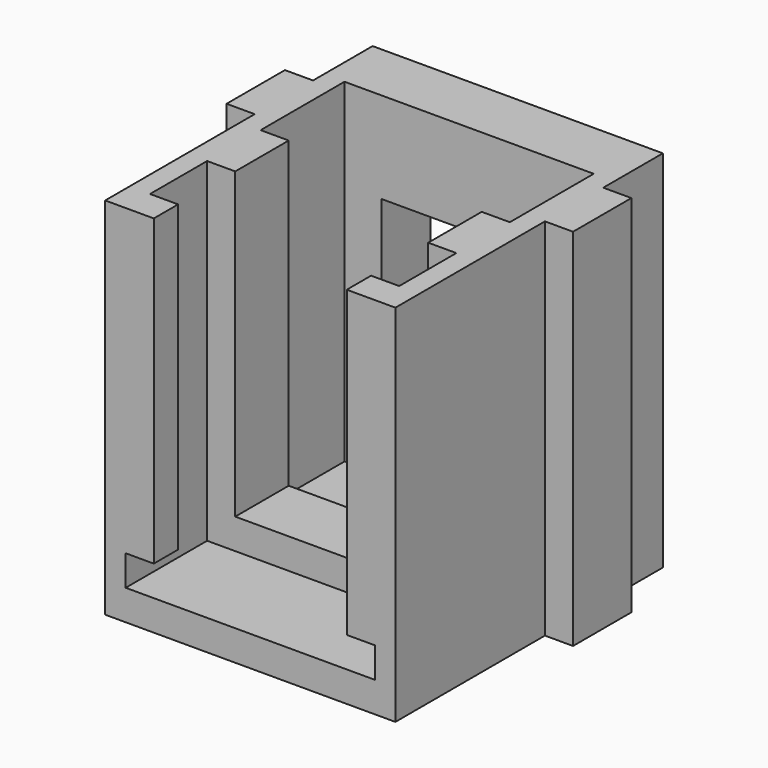
from build123d import *

# Parameters (mm, degrees)
SKETCH_W        = 19.1
SKETCH_H        = 22
PAD_DEPTH       = 24
SKETCH001_W     = 22.8
SKETCH001_H     = 4.8
PAD001_DEPTH    = 24
SKETCH002_W     = 16.4
SKETCH002_H     = 18
POCKET_DEPTH    = 22
SKETCH003_W     = 8.2
SKETCH003_H     = 15
POCKET001_DEPTH = 5
SKETCH004_W     = 1.85
SKETCH004_H     = 2
SKETCH004_H_2   = 4.4
PAD002_DEPTH    = 20
SKETCH005_W     = 19.1
SKETCH005_H     = 4.4
PAD003_DEPTH    = 4


with BuildPart() as part:
    # Sketch → Pad (new body)
    with BuildSketch(Plane.XY):
        with Locations((-18.174118, 15.421817)):
            Rectangle(SKETCH_W, SKETCH_H)
    extrude(amount=PAD_DEPTH)

    # Sketch001 → Pad001 (new body)
    with BuildSketch(Plane.XY.offset(24)):
        with Locations((-18.174118, 19.121817)):
            Rectangle(SKETCH001_W, SKETCH001_H)
    extrude(amount=-PAD001_DEPTH)

    # Sketch002 → Pocket (cut)
    with BuildSketch(Plane.XY.offset(24)):
        with Locations((-18.174118, 13.421817)):
            Rectangle(SKETCH002_W, SKETCH002_H)
    extrude(amount=-POCKET_DEPTH, mode=Mode.SUBTRACT)

    # Sketch003 → Pocket001 (cut)
    with BuildSketch(Plane(origin=(0, 26.421817, 0), x_dir=(-1, 0, 0), z_dir=(0, 1, 0))):
        with Locations((19.824118, 10.5)):
            Rectangle(SKETCH003_W, SKETCH003_H)
    extrude(amount=-POCKET001_DEPTH, mode=Mode.SUBTRACT)

    # Sketch004 → Pad002 (new body)
    with BuildSketch(Plane.XY.offset(24)):
        with Locations((-25.449118, 5.421817)):
            Rectangle(SKETCH004_W, SKETCH004_H)
        with Locations((-10.899118, 5.421817)):
            Rectangle(SKETCH004_W, SKETCH004_H)
        with Locations((-25.449118, 13.321817)):
            Rectangle(SKETCH004_W, SKETCH004_H_2)
        with Locations((-10.899118, 13.321817)):
            Rectangle(SKETCH004_W, SKETCH004_H_2)
    extrude(amount=-PAD002_DEPTH)

    # Sketch005 → Pad003 (new body)
    with BuildSketch(Plane(origin=(0, 0, 0), x_dir=(1, 0, 0), z_dir=(0, 0, -1))):
        with Locations((-18.174118, -13.321817)):
            Rectangle(SKETCH005_W, SKETCH005_H)
    extrude(amount=-PAD003_DEPTH)


solid = part.part
